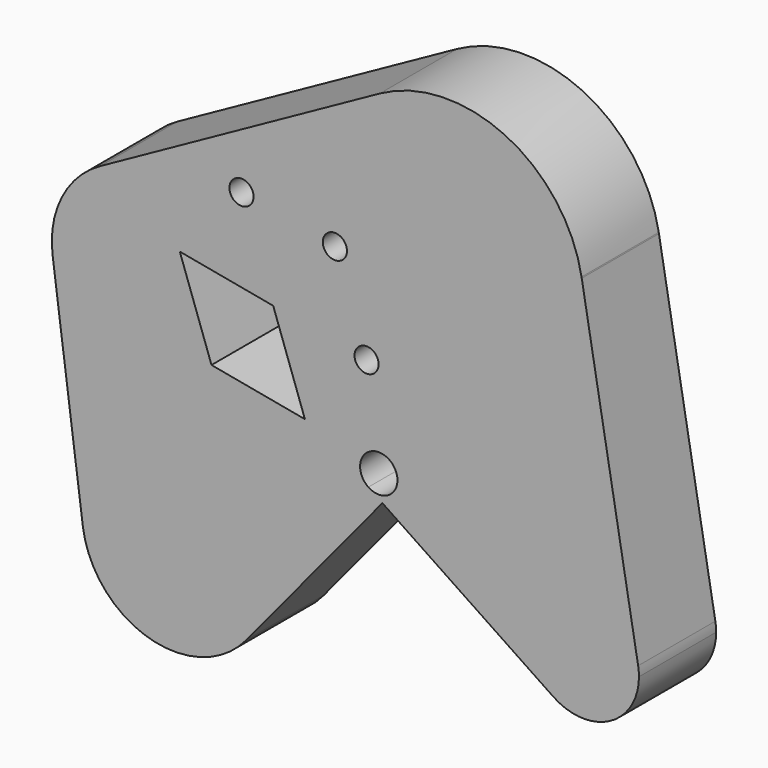
from build123d import *

# Parameters (mm, degrees)
F1_DEPTH = 25.4
F3_DEPTH = 25.4
F4_DEPTH = 25.4
F5_D     = 6.35
F6_D     = 6.35
F7_D     = 6.35


with BuildPart() as f1:
    # F0 (on Front) → F1 (new body)
    with BuildSketch(Plane.XZ):
        with BuildLine():
            ThreePointArc((-81.4044819336, 83.7894535693), (-56.9535815274, 83.462929282), (-44.8214243022, 62.2317279536))
            ThreePointArc((-44.8214243022, 62.2317279536), (-67.8461689377, 37.641623994), (-93.8954395614, 59.0015766684))
            Line((-93.8954395614, 59.0015766684), (-85.9510365488, -1.0845648523))
            ThreePointArc((-85.9510365488, -1.0845648523), (-63.3331540861, 26.4987987528), (-37.294890351, 2.1180814432))
            ThreePointArc((-37.294890351, 2.1180814432), (-38.734729228, -6.1455375994), (-42.8845494933, -13.4352239739))
            Line((-42.8845494933, -13.4352239739), (-7.1169419868, 29.8995050449))
            Line((-7.1169419868, 29.8995050449), (37.9090425379, -0.3676435997))
            ThreePointArc((37.9090425379, -0.3676435997), (38.1002397013, 23.7171988773), (60.1805807204, 14.0956223965))
            Line((60.1805807205, 14.0956223965), (45.3402720787, 99.0440562508))
            ThreePointArc((45.3402720787, 99.0440562508), (45.7257653294, 96.0179672104), (45.8545692558, 92.9701434826))
            ThreePointArc((45.8545692558, 92.9701434826), (-8.6091784666, 61.8478937228), (-7.7715557558, 124.5710364556))
            Line((-7.7715557558, 124.5710364556), (-81.4044819336, 83.7894535693))
        make_face()
        with BuildLine():
            Line((-4.2810993854, 33.3353085342), (-7.1169419868, 29.8995050449))
            Line((-7.1169419868, 29.8995050449), (-10.8142049734, 32.3848612137))
            ThreePointArc((-10.8142049734, 32.3848612137), (-10.3830468788, 40.8024385377), (-3.1566041276, 36.4642326329))
            ThreePointArc((-3.1566041276, 36.4642326329), (-3.4462625741, 34.8018055217), (-4.2810993854, 33.3353085342))
        make_face(mode=Mode.SUBTRACT)
        with BuildLine():
            ThreePointArc((45.2904246952, 99.3293910955), (25.2484905686, 125.5912487777), (-7.7715557558, 124.5710364556))
            ThreePointArc((-7.7715557558, 124.5710364556), (-8.6091784666, 61.8478937228), (45.8545692558, 92.9701434826))
            ThreePointArc((45.8545692558, 92.9701434826), (45.7257653294, 96.0179672104), (45.3402720787, 99.0440562508))
            Line((45.3402720787, 99.0440562508), (45.2904246952, 99.3293910955))
        make_face()
        with BuildLine():
            ThreePointArc((-93.8954395614, 59.0015766684), (-67.8461689377, 37.641623994), (-44.8214243022, 62.2317279536))
            ThreePointArc((-44.8214243022, 62.2317279536), (-56.9535815274, 83.462929282), (-81.4044819336, 83.7894535693))
            ThreePointArc((-81.4044819336, 83.7894535693), (-91.4718288588, 73.321407878), (-93.8954395614, 59.0015766684))
        make_face()
        with BuildLine():
            ThreePointArc((-37.294890351, 2.1180814432), (-63.3331540861, 26.4987987528), (-85.9510365488, -1.0845648523))
            ThreePointArc((-85.9510365488, -1.0845648523), (-68.4639217442, -21.3686596672), (-42.8845494933, -13.4352239739))
            ThreePointArc((-42.8845494933, -13.4352239739), (-38.734729228, -6.1455375994), (-37.294890351, 2.1180814432))
        make_face()
        with BuildLine():
            ThreePointArc((60.3959257616, 11.6116108139), (60.3419887269, 12.858275066), (60.1805807204, 14.0956223965))
            ThreePointArc((60.1805807204, 14.0956223965), (38.1002397013, 23.7171988773), (37.9090425379, -0.3676435997))
            ThreePointArc((37.9090425379, -0.3676435997), (52.7482001902, -1.1277225028), (60.3959257616, 11.6116108139))
        make_face()
        with BuildLine():
            Line((-10.8142049734, 32.3848612137), (-7.1169419868, 29.8995050449))
            Line((-7.1169419868, 29.8995050449), (-4.2810993854, 33.3353085342))
            ThreePointArc((-4.2810993854, 33.3353085342), (-7.3643405271, 31.6000525145), (-10.8142049734, 32.3848612137))
        make_face()
        with BuildLine():
            ThreePointArc((45.3402720787, 99.0440562508), (45.315634379, 99.1867736354), (45.2904246952, 99.3293910955))
            Line((45.2904246952, 99.3293910955), (45.3402720787, 99.0440562508))
        make_face()
    extrude(amount=F1_DEPTH)

    # F2 (on face) → F3 (cut)
    with BuildSketch(Plane.XZ.offset(25.4)):
        Polygon((-52.0894788206, 47.2524687648), (-35.853933543, 66.2599354982), (-60.4326552345, 70.8165967862), align=None)
    extrude(amount=-F3_DEPTH, mode=Mode.SUBTRACT)

    # F2 (on face) → F4 (cut)
    with BuildSketch(Plane.XZ.offset(25.4)):
        Polygon((-27.510757129, 42.6958074768), (-35.853933543, 66.2599354982), (-52.0894788206, 47.2524687648), align=None)
    extrude(amount=-F4_DEPTH, mode=Mode.SUBTRACT)

    # F5 (through all)
    with Locations(Plane.XZ.offset(25.4)):
        with Locations((-19.6183882654, 85.2674022317)):
            Hole(F5_D / 2)

    # F6 (through all)
    with Locations(Plane.XZ.offset(25.4)):
        with Locations((-44.1971099569, 89.8240635197)):
            Hole(F6_D / 2)

    # F7 (through all)
    with Locations(Plane.XZ.offset(25.4)):
        with Locations((-11.2752118514, 61.7032742103)):
            Hole(F7_D / 2)


solid = f1.part
